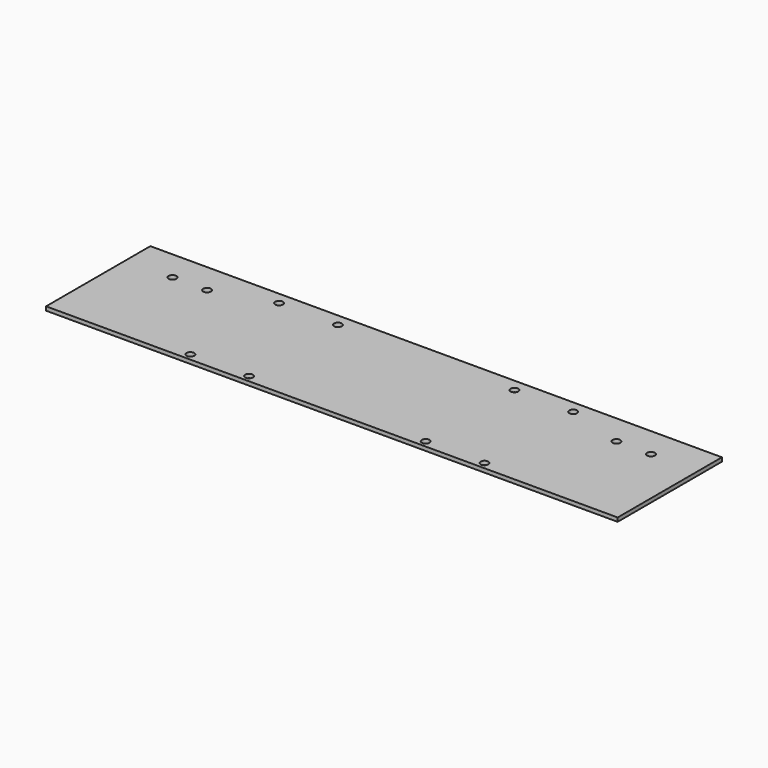
from build123d import *

# Parameters (mm, degrees)
F0_W     = 262.128
F0_H     = 59.7662
F0_R     = 1.778
F1_DEPTH = 1.778


with BuildPart() as f1:
    # F0 (on Top) → F1 (new body)
    with BuildSketch(Plane.XY):
        Rectangle(F0_W, F0_H)
        with Locations((-67.437, -26.7081)):
            Circle(F0_R, mode=Mode.SUBTRACT)
        with Locations((-40.4876, -26.7081)):
            Circle(F0_R, mode=Mode.SUBTRACT)
        with Locations((40.4876, -26.7081)):
            Circle(F0_R, mode=Mode.SUBTRACT)
        with Locations((67.437, -26.7081)):
            Circle(F0_R, mode=Mode.SUBTRACT)
        with Locations((-109.728, 15.9131)):
            Circle(F0_R, mode=Mode.SUBTRACT)
        with Locations((-93.853, 15.9131)):
            Circle(F0_R, mode=Mode.SUBTRACT)
        with Locations((-67.437, 24.1681)):
            Circle(F0_R, mode=Mode.SUBTRACT)
        with Locations((-40.4876, 24.1681)):
            Circle(F0_R, mode=Mode.SUBTRACT)
        with Locations((40.4876, 24.1681)):
            Circle(F0_R, mode=Mode.SUBTRACT)
        with Locations((93.853, 15.9131)):
            Circle(F0_R, mode=Mode.SUBTRACT)
        with Locations((109.728, 15.9131)):
            Circle(F0_R, mode=Mode.SUBTRACT)
        with Locations((67.437, 24.1681)):
            Circle(F0_R, mode=Mode.SUBTRACT)
    extrude(amount=F1_DEPTH)


solid = f1.part
